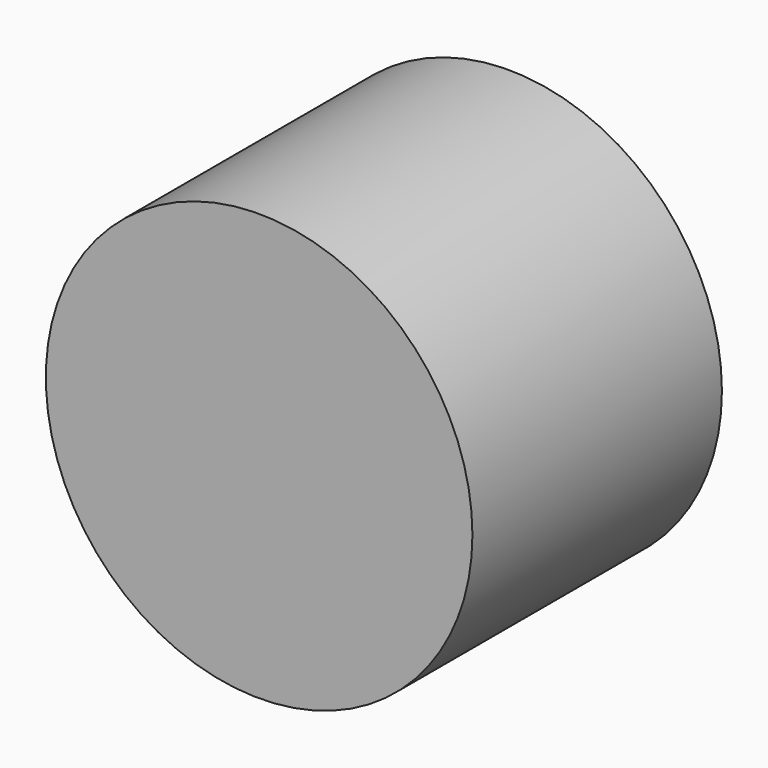
from build123d import *

# Parameters (mm, degrees)
F1_R     = 52.112275
F2_DEPTH = 76.2
F3_R     = 50.475255
F4_DEPTH = 76.2


with BuildPart() as f2:
    # F1 (on face) → F2 (new body)
    with BuildSketch(Plane.XZ):
        Circle(F1_R)
    extrude(amount=F2_DEPTH)

    # F3 (on face) → F4 (join)
    with BuildSketch(Plane.XZ):
        Circle(F3_R)
    extrude(amount=F4_DEPTH)


solid = f2.part
